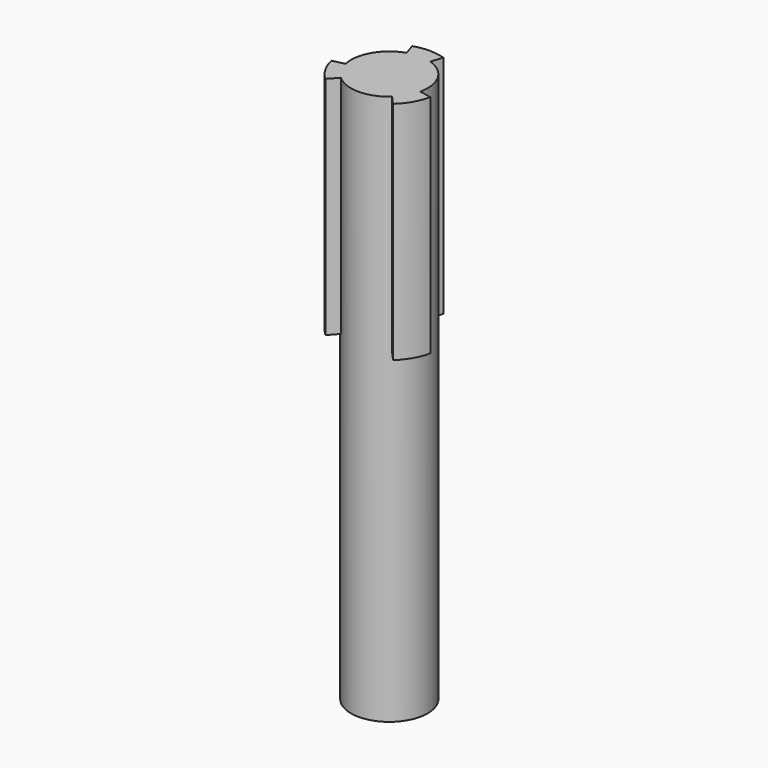
from build123d import *

# Parameters (mm, degrees)
F0_R     = 4.25
F1_DEPTH = 55
F2_R     = 4.25
F2_R_2   = 0.35
F3_DEPTH = 3
F4_R     = 4.25
F5_DEPTH = 3
F7_DEPTH = 25


with BuildPart() as f1:
    # F0 (on Top) → F1 (new body)
    with BuildSketch(Plane.XY):
        Circle(F0_R)
        with BuildLine():
            ThreePointArc((0.4014783638, -0.4458868953), (0, -0.6), (-0.4014783638, -0.4458868953))
            Line((-0.4014783638, -0.4458868953), (-1.7825704497, -3.1564327321))
            ThreePointArc((-1.7825704497, -3.1564327321), (-2.1167558909, -2.9427826114), (-2.4255984481, -2.6938999924))
            ThreePointArc((-2.4255984481, -2.6938999924), (-3.1393420887, -1.8125), (-3.5457850527, -0.7536798792))
            ThreePointArc((-3.5457850527, -0.7536798792), (-3.6069024448, -0.3617730694), (-3.6248361561, 0.0344650726))
            Line((-3.6248361561, 0.0344650726), (-0.5868885604, -0.1247470145))
            ThreePointArc((-0.5868885604, -0.1247470145), (-0.5196152423, 0.3), (-0.1854101966, 0.5706339098))
            Line((-0.1854101966, 0.5706339098), (-1.8422657065, 3.1219676595))
            ThreePointArc((-1.8422657065, 3.1219676595), (0, 3.625), (1.8422657065, 3.1219676595))
            Line((1.8422657065, 3.1219676595), (0.1854101966, 0.5706339098))
            ThreePointArc((0.1854101966, 0.5706339098), (0.5196152423, 0.3), (0.5868885604, -0.1247470145))
            Line((0.5868885604, -0.1247470145), (3.6248361561, 0.0344650726))
            ThreePointArc((3.6248361561, 0.0344650726), (3.1393420887, -1.8125), (1.7825704497, -3.1564327321))
            Line((1.7825704497, -3.1564327321), (0.4014783638, -0.4458868953))
        make_face(mode=Mode.SUBTRACT)
    extrude(amount=F1_DEPTH)

    # F2 (on face) → F3 (join)
    with BuildSketch(Plane.XY.offset(55)):
        Circle(F2_R)
        Circle(F2_R_2, mode=Mode.SUBTRACT)
    extrude(amount=F3_DEPTH)

    # F4 (on face) → F5 (join)
    with BuildSketch(Plane.XY.offset(58)):
        Circle(F4_R)
    extrude(amount=F5_DEPTH)

    # F6 (on face) → F7 (join)
    with BuildSketch(Plane.XY.offset(61)):
        with BuildLine():
            ThreePointArc((-2.843805077, -3.1583655083), (-3.6806079661, -2.125), (-4.1571273031, -0.883624686))
            Line((-4.1571273031, -0.883624686), (-5.4765591727, -1.1640785875))
            ThreePointArc((-5.4765591727, -1.1640785875), (-4.8487972217, -2.7994543812), (-3.7464012151, -4.1608000751))
            Line((-3.7464012151, -4.1608000751), (-2.843805077, -3.1583655083))
        make_face()
        with BuildLine():
            ThreePointArc((-1.3133222261, 4.0419901943), (0, 4.25), (1.3133222261, 4.0419901943))
            Line((1.3133222261, 4.0419901943), (1.7301579575, 5.3248786626))
            ThreePointArc((1.7301579575, 5.3248786626), (0, 5.5989087624), (-1.7301579575, 5.3248786626))
            Line((-1.7301579575, 5.3248786626), (-1.3133222261, 4.0419901943))
        make_face()
        with BuildLine():
            ThreePointArc((4.1571273031, -0.883624686), (3.6806079661, -2.125), (2.843805077, -3.1583655083))
            Line((2.843805077, -3.1583655083), (3.7464012151, -4.1608000751))
            ThreePointArc((3.7464012151, -4.1608000751), (4.8487972217, -2.7994543812), (5.4765591727, -1.1640785875))
            Line((5.4765591727, -1.1640785875), (4.1571273031, -0.883624686))
        make_face()
    extrude(amount=-F7_DEPTH)


solid = f1.part
